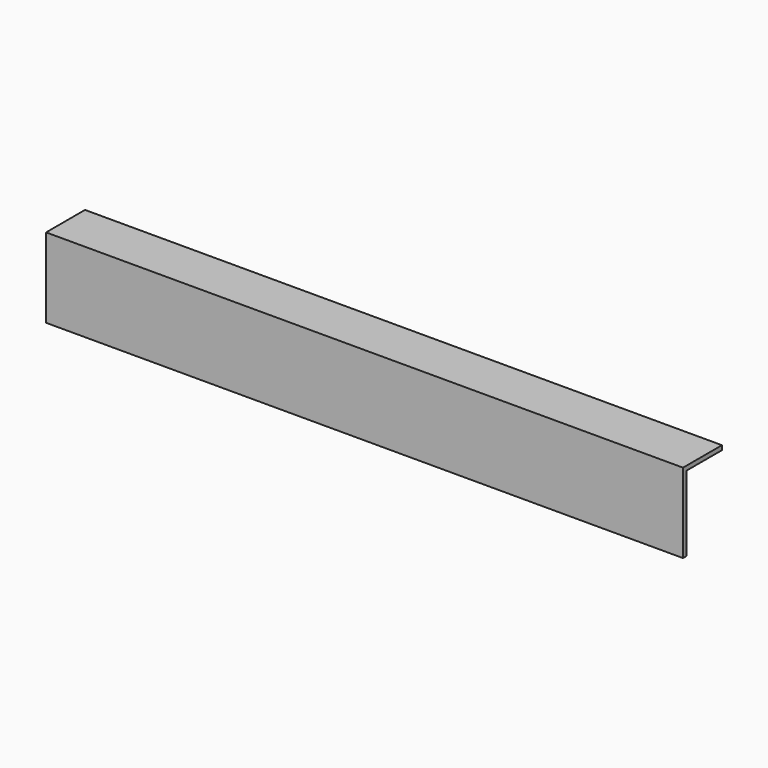
from build123d import *

# Parameters (mm, degrees)
BOX003_W     = 139
BOX003_H     = 10
BOX003_DEPTH = 10
BOX001_W     = 360
BOX001_H     = 2.5
BOX001_DEPTH = 42.5
BOX_W        = 120
BOX_H        = 37.5
BOX_DEPTH    = 2.5
BOX002_W     = 360
BOX002_H     = 27.5
BOX002_DEPTH = 2.5


with BuildPart() as cube003:
    # Box003 → Box003 (new body)
    with BuildSketch(Plane(origin=(-10, -10, -3), x_dir=(1, 0, 0), z_dir=(0, 0, 1))):
        with Locations((69.5, 5)):
            Rectangle(BOX003_W, BOX003_H)
    extrude(amount=BOX003_DEPTH)


with BuildPart() as cube001:
    # Box001 → Box001 (new body)
    with BuildSketch(Plane(origin=(-120, 0, 0), x_dir=(1, 0, 0), z_dir=(0, 0, 1))):
        with Locations((180, 1.25)):
            Rectangle(BOX001_W, BOX001_H)
    extrude(amount=BOX001_DEPTH)


with BuildPart() as fusion:
    # Box → Box (new body)
    with BuildSketch(Plane(origin=(0, -10, 0), x_dir=(1, 0, 0), z_dir=(0, 0, 1))):
        with Locations((60, 18.75)):
            Rectangle(BOX_W, BOX_H)
    extrude(amount=BOX_DEPTH)

    # Fusion: union Cube001
    add(cube001.part)


with BuildPart() as cut:
    # Box002 → Box002 (new body)
    with BuildSketch(Plane(origin=(-120, 0, 42.5), x_dir=(1, 0, 0), z_dir=(0, 0, 1))):
        with Locations((180, 13.75)):
            Rectangle(BOX002_W, BOX002_H)
    extrude(amount=BOX002_DEPTH)

    # Fusion001: union Fusion
    add(fusion.part)

    # Cut: cut Cube003
    add(cube003.part, mode=Mode.SUBTRACT)


solid = cut.part
